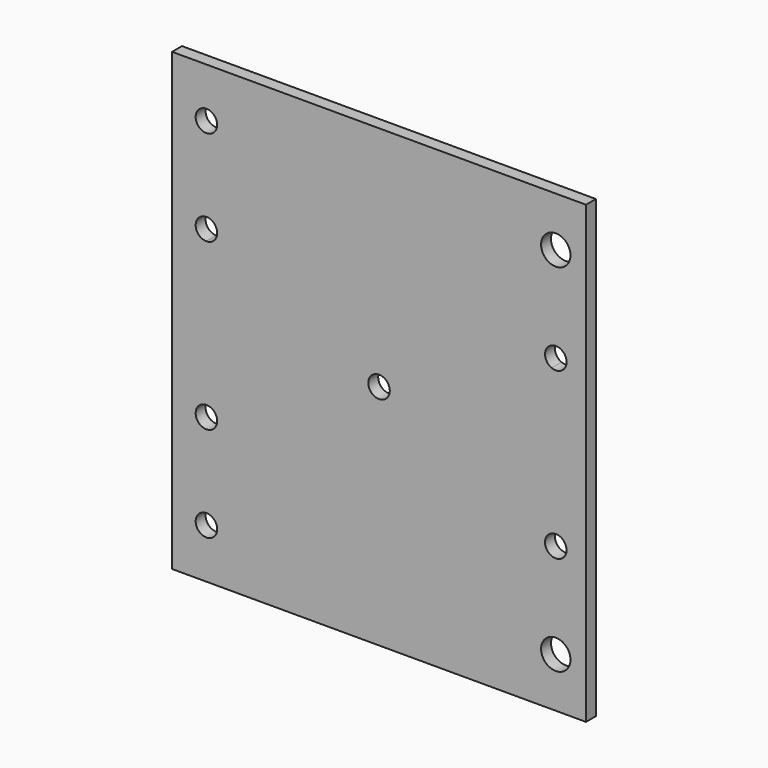
from build123d import *

# Parameters (mm, degrees)
F0_W     = 100
F0_H     = 110
F0_R     = 2.6
F0_R_2   = 3.55
F1_DEPTH = 3


with BuildPart() as f1:
    # F0 (on Front) → F1 (new body)
    with BuildSketch(Plane.XZ):
        Rectangle(F0_W, F0_H)
        with Locations((-41.7, -43)):
            Circle(F0_R, mode=Mode.SUBTRACT)
        with BuildLine():
            ThreePointArc((-39.1, -20), (-43.5384776311, -21.8384776311), (-41.7, -17.4))
            ThreePointArc((-41.7, -17.4), (-39.8615223689, -18.1615223689), (-39.1, -20))
        make_face(mode=Mode.SUBTRACT)
        with Locations((42.7, -43)):
            Circle(F0_R_2, mode=Mode.SUBTRACT)
        with BuildLine():
            ThreePointArc((45.3, -20), (41.2577794898, -22.1633307653), (41.7, -17.6))
            ThreePointArc((41.7, -17.6), (44.1422205102, -17.8366692347), (45.3, -20))
        make_face(mode=Mode.SUBTRACT)
        with BuildLine():
            ThreePointArc((-39.1, 20), (-39.8615223689, 18.1615223689), (-41.7, 17.4))
            ThreePointArc((-41.7, 17.4), (-43.5384776311, 21.8384776311), (-39.1, 20))
        make_face(mode=Mode.SUBTRACT)
        with Locations((-41.7, 43)):
            Circle(F0_R, mode=Mode.SUBTRACT)
        Circle(F0_R, mode=Mode.SUBTRACT)
        with BuildLine():
            ThreePointArc((45.3, 20), (44.1422205102, 17.8366692347), (41.7, 17.6))
            ThreePointArc((41.7, 17.6), (41.2577794898, 22.1633307653), (45.3, 20))
        make_face(mode=Mode.SUBTRACT)
        with Locations((42.7, 43)):
            Circle(F0_R_2, mode=Mode.SUBTRACT)
    extrude(amount=F1_DEPTH)


solid = f1.part
